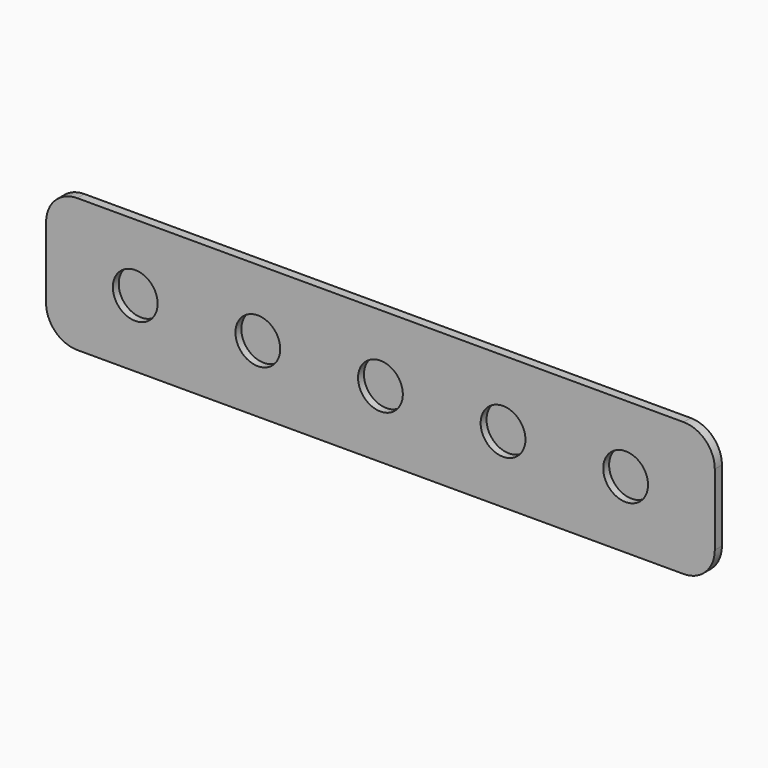
from build123d import *

# Parameters (mm, degrees)
F1_DEPTH = 2
F2_R     = 5.025
F3_DEPTH = 1.65


with BuildPart() as f1:
    # F0 (on Front) → F1 (new body)
    with BuildSketch(Plane.XZ):
        with BuildLine():
            ThreePointArc((0, 7), (2.050253, 2.050253), (7, 0))
            Line((7, 0), (143, 0))
            ThreePointArc((143, 0), (147.949747, 2.050253), (150, 7))
            Line((150, 7), (150, 23))
            ThreePointArc((150, 23), (147.949747, 27.949747), (143, 30))
            Line((143, 30), (7, 30))
            ThreePointArc((7, 30), (2.050253, 27.949747), (0, 23))
            Line((0, 23), (0, 7))
        make_face()
    extrude(amount=F1_DEPTH)

    # F2 (on face) → F3 (cut)
    with BuildSketch(Plane.XZ.offset(2)):
        with Locations((20, 15)):
            Circle(F2_R)
        with Locations((47.5, 15)):
            Circle(F2_R)
        with Locations((75, 15)):
            Circle(F2_R)
        with Locations((102.5, 15)):
            Circle(F2_R)
        with Locations((130, 15)):
            Circle(F2_R)
    extrude(amount=-F3_DEPTH, mode=Mode.SUBTRACT)


solid = f1.part
